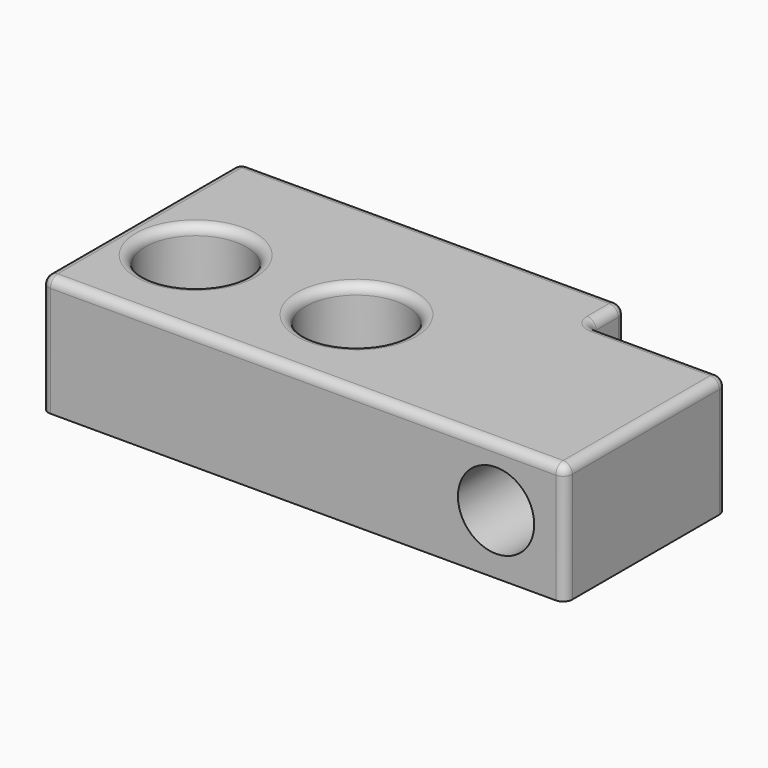
from build123d import *

# Parameters (mm, degrees)
F0_R     = 3
F1_DEPTH = 13
F2_R     = 4.15
F3_DEPTH = 22.001
F4_R     = 5.5
F5_DEPTH = 7
F6_R     = 1
F7_R     = 0.25


with BuildPart() as f1:
    # F0 (on Top) → F1 (new body)
    with BuildSketch(Plane.XY):
        Polygon((-28.5, 13.5), (-28.5, -13.5), (28.5, -13.5), (28.5, 8.5), (13.5, 8.5), (13.5, 13.5), align=None)
        with Locations((-20.5, -2.5)):
            Circle(F0_R, mode=Mode.SUBTRACT)
        with Locations((-3, -2.5)):
            Circle(F0_R, mode=Mode.SUBTRACT)
    extrude(amount=F1_DEPTH)

    # F2 (on face) → F3 (cut, through all)
    with BuildSketch(Plane(origin=(0, 8.5, 0), x_dir=(-1, 0, 0), z_dir=(0, 1, 0))):
        with Locations((-21, 6.5)):
            Circle(F2_R)
    extrude(amount=-F3_DEPTH, mode=Mode.SUBTRACT)

    # F4 (on face) → F5 (cut)
    with BuildSketch(Plane.XY.offset(13)):
        with Locations((-20.5, -2.5)):
            Circle(F4_R)
        with Locations((-3, -2.5)):
            Circle(F4_R)
    extrude(amount=-F5_DEPTH, mode=Mode.SUBTRACT)

    # F6
    f6_edges = [f1.edges().sort_by_distance(p)[0] for p in [
        (0, -13.5, 13),
        (28.5, -2.5, 13),
        (-7.5, 13.5, 13),
        (21, 8.5, 13),
        (13.5, 11, 13),
        (-28.5, 0, 13),
        (-28.5, -13.5, 6.5),
        (28.5, -13.5, 6.5),
        (28.5, 8.5, 6.5),
        (13.5, 8.5, 6.5),
        (13.5, 13.5, 6.5),
        (-28.5, 13.5, 6.5),
        (25.15, 8.5, 6.5),
        (-8.5, -2.5, 13),
        (-26, -2.5, 13),
    ]]
    fillet(f6_edges, radius=F6_R)

    # F7
    f7_edges = [f1.edges().sort_by_distance(p)[0] for p in [
        (-8.5, -2.5, 6),
        (-26, -2.5, 6),
    ]]
    fillet(f7_edges, radius=F7_R)


solid = f1.part
